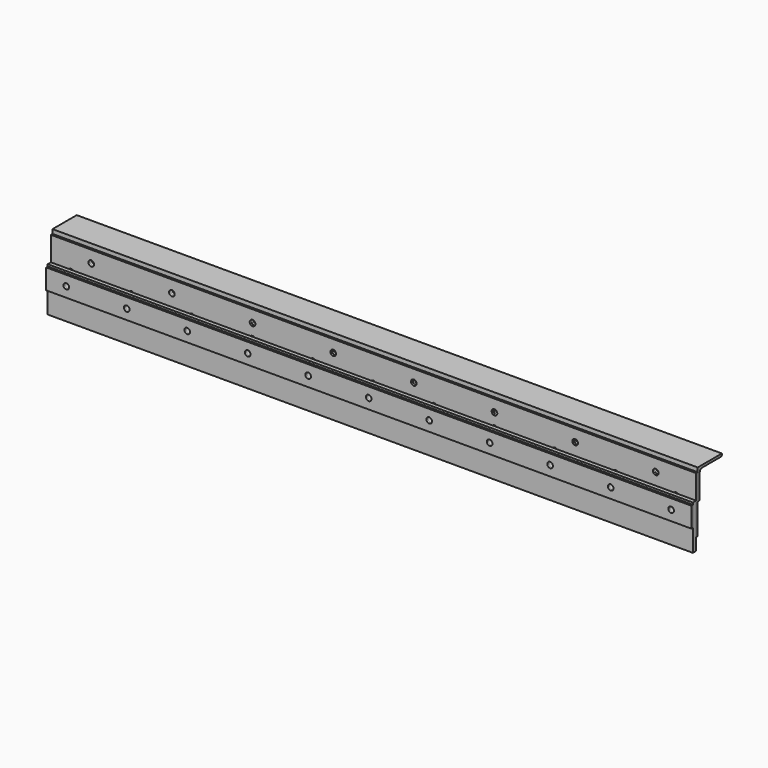
from build123d import *

# Parameters (mm, degrees)
SKETCH_R         = 7
EXTRUDE001_DEPTH = 10
EXTRUDE_DEPTH    = 800
SKETCH001_W      = 1600
SKETCH001_H      = 140
SKETCH001_R      = 7
EXTRUDE002_DEPTH = 5
SKETCH002_W      = 1600
SKETCH002_H      = 110
SKETCH002_R      = 7
EXTRUDE003_DEPTH = 10
SKETCH003_W      = 1600
SKETCH003_H      = 50
SKETCH003_R      = 7
EXTRUDE004_DEPTH = 5


with BuildPart() as extrude001:
    # Sketch (on Face1 of Extrude) → Extrude001 (new body)
    with BuildSketch(Plane.XZ):
        with Locations((-700, -40.447773)):
            Circle(SKETCH_R)
        with Locations((700, -39.622757)):
            Circle(SKETCH_R)
        with Locations((-500, -40.447773)):
            Circle(SKETCH_R)
        with Locations((-299.49234, -40.447773)):
            Circle(SKETCH_R)
        with Locations((-99.23851, -40.447773)):
            Circle(SKETCH_R)
        with Locations((101.01532, -40.447773)):
            Circle(SKETCH_R)
        with Locations((301.26915, -40.447773)):
            Circle(SKETCH_R)
        with Locations((501.52298, -40.447773)):
            Circle(SKETCH_R)
    extrude(amount=-EXTRUDE001_DEPTH)


with BuildPart() as angle:
    # AngleSteel → Extrude (new body, symmetric)
    with BuildSketch(Plane(origin=(0, 20.58985, -20.58985), x_dir=(0, -1, 0), z_dir=(1, 0, 0))):
        with BuildLine():
            Line((20.58985, -20.58985), (20.58985, 54.41015))
            Line((20.58985, 54.41015), (18.58985, 54.41015))
            ThreePointArc((18.58985, 54.41015), (15.761423, 53.238577), (14.58985, 50.41015))
            Line((14.58985, 50.41015), (14.58985, -6.08985))
            ThreePointArc((14.58985, -6.08985), (12.100258, -12.100258), (6.08985, -14.58985))
            Line((6.08985, -14.58985), (-50.41015, -14.58985))
            ThreePointArc((-50.41015, -14.58985), (-53.238577, -15.761423), (-54.41015, -18.58985))
            Line((-54.41015, -18.58985), (-54.41015, -20.58985))
            Line((-54.41015, -20.58985), (20.58985, -20.58985))
        make_face()
    extrude(amount=EXTRUDE_DEPTH, both=True)

    # Cut: cut Extrude001
    add(extrude001.part, mode=Mode.SUBTRACT)


with BuildPart() as extrude002:
    # Sketch001 → Extrude002 (new body)
    with BuildSketch(Plane.XZ):
        Rectangle(SKETCH001_W, SKETCH001_H)
        with Locations((-700, 40)):
            Circle(SKETCH001_R, mode=Mode.SUBTRACT)
        with Locations((100, 40)):
            Circle(SKETCH001_R, mode=Mode.SUBTRACT)
        with Locations((-500, 40)):
            Circle(SKETCH001_R, mode=Mode.SUBTRACT)
        with Locations((-300, 40)):
            Circle(SKETCH001_R, mode=Mode.SUBTRACT)
        with Locations((-100, 40)):
            Circle(SKETCH001_R, mode=Mode.SUBTRACT)
        with Locations((300, 40)):
            Circle(SKETCH001_R, mode=Mode.SUBTRACT)
        with Locations((500, 40)):
            Circle(SKETCH001_R, mode=Mode.SUBTRACT)
        with Locations((700, 40)):
            Circle(SKETCH001_R, mode=Mode.SUBTRACT)
        with BuildLine():
            Line((-743, 5), (-743, -45))
            ThreePointArc((-757, -45), (-750, -52), (-743, -45))
            Line((-757, -45), (-757, 5))
            ThreePointArc((-743, 5), (-750, 12), (-757, 5))
        make_face(mode=Mode.SUBTRACT)
        with BuildLine():
            Line((-593, 5), (-593, -45))
            ThreePointArc((-607, -45), (-600, -52), (-593, -45))
            Line((-607, -45), (-607, 5))
            ThreePointArc((-593, 5), (-600, 12), (-607, 5))
        make_face(mode=Mode.SUBTRACT)
        with BuildLine():
            Line((-443, 5), (-443, -45))
            ThreePointArc((-457, -45), (-450, -52), (-443, -45))
            Line((-457, -45), (-457, 5))
            ThreePointArc((-443, 5), (-450, 12), (-457, 5))
        make_face(mode=Mode.SUBTRACT)
        with BuildLine():
            Line((-293, 5), (-293, -45))
            ThreePointArc((-307, -45), (-300, -52), (-293, -45))
            Line((-307, -45), (-307, 5))
            ThreePointArc((-293, 5), (-300, 12), (-307, 5))
        make_face(mode=Mode.SUBTRACT)
        with BuildLine():
            Line((-143, 5), (-143, -45))
            ThreePointArc((-157, -45), (-150, -52), (-143, -45))
            Line((-157, -45), (-157, 5))
            ThreePointArc((-143, 5), (-150, 12), (-157, 5))
        make_face(mode=Mode.SUBTRACT)
        with BuildLine():
            Line((7, 5), (7, -45))
            ThreePointArc((-7, -45), (0, -52), (7, -45))
            Line((-7, -45), (-7, 5))
            ThreePointArc((7, 5), (0, 12), (-7, 5))
        make_face(mode=Mode.SUBTRACT)
        with BuildLine():
            Line((157, 5), (157, -45))
            ThreePointArc((143, -45), (150, -52), (157, -45))
            Line((143, -45), (143, 5))
            ThreePointArc((157, 5), (150, 12), (143, 5))
        make_face(mode=Mode.SUBTRACT)
        with BuildLine():
            Line((307, 5), (307, -45))
            ThreePointArc((293, -45), (300, -52), (307, -45))
            Line((293, -45), (293, 5))
            ThreePointArc((307, 5), (300, 12), (293, 5))
        make_face(mode=Mode.SUBTRACT)
        with BuildLine():
            Line((457, 5), (457, -45))
            ThreePointArc((443, -45), (450, -52), (457, -45))
            Line((443, -45), (443, 5))
            ThreePointArc((457, 5), (450, 12), (443, 5))
        make_face(mode=Mode.SUBTRACT)
        with BuildLine():
            Line((607, 5), (607, -45))
            ThreePointArc((593, -45), (600, -52), (607, -45))
            Line((593, -45), (593, 5))
            ThreePointArc((607, 5), (600, 12), (593, 5))
        make_face(mode=Mode.SUBTRACT)
        with BuildLine():
            Line((757, 5), (757, -45))
            ThreePointArc((743, -45), (750, -52), (757, -45))
            Line((743, -45), (743, 5))
            ThreePointArc((757, 5), (750, 12), (743, 5))
        make_face(mode=Mode.SUBTRACT)
    extrude(amount=EXTRUDE002_DEPTH)


with BuildPart() as extrude002_1:
    # Extrude002 placement: moved
    add(extrude002.part.moved(Location((0, 0, -80.447773))))


with BuildPart() as rubberplate:
    # Sketch002 → Extrude003 (new body)
    with BuildSketch(Plane.XZ):
        Rectangle(SKETCH002_W, SKETCH002_H)
        with Locations((-750, 25)):
            Circle(SKETCH002_R, mode=Mode.SUBTRACT)
        with Locations((-600, 25)):
            Circle(SKETCH002_R, mode=Mode.SUBTRACT)
        with Locations((-450, 25)):
            Circle(SKETCH002_R, mode=Mode.SUBTRACT)
        with Locations((-300, 25)):
            Circle(SKETCH002_R, mode=Mode.SUBTRACT)
        with Locations((-150, 25)):
            Circle(SKETCH002_R, mode=Mode.SUBTRACT)
        with Locations((0, 25)):
            Circle(SKETCH002_R, mode=Mode.SUBTRACT)
        with Locations((150, 25)):
            Circle(SKETCH002_R, mode=Mode.SUBTRACT)
        with Locations((300, 25)):
            Circle(SKETCH002_R, mode=Mode.SUBTRACT)
        with Locations((450, 25)):
            Circle(SKETCH002_R, mode=Mode.SUBTRACT)
        with Locations((600, 25)):
            Circle(SKETCH002_R, mode=Mode.SUBTRACT)
        with Locations((750, 25)):
            Circle(SKETCH002_R, mode=Mode.SUBTRACT)
    extrude(amount=EXTRUDE003_DEPTH)


with BuildPart() as rubberplate_1:
    # Extrude003 placement: moved
    add(rubberplate.part.moved(Location((0, -5, -125.45))))


with BuildPart() as extrude004:
    # Sketch003 → Extrude004 (new body)
    with BuildSketch(Plane.XZ):
        Rectangle(SKETCH003_W, SKETCH003_H)
        with Locations((-750, 0)):
            Circle(SKETCH003_R, mode=Mode.SUBTRACT)
        with Locations((-600, 0)):
            Circle(SKETCH003_R, mode=Mode.SUBTRACT)
        with Locations((-450, 0)):
            Circle(SKETCH003_R, mode=Mode.SUBTRACT)
        with Locations((-300, 0)):
            Circle(SKETCH003_R, mode=Mode.SUBTRACT)
        with Locations((-150, 0)):
            Circle(SKETCH003_R, mode=Mode.SUBTRACT)
        Circle(SKETCH003_R, mode=Mode.SUBTRACT)
        with Locations((150, 0)):
            Circle(SKETCH003_R, mode=Mode.SUBTRACT)
        with Locations((300, 0)):
            Circle(SKETCH003_R, mode=Mode.SUBTRACT)
        with Locations((450, 0)):
            Circle(SKETCH003_R, mode=Mode.SUBTRACT)
        with Locations((600, 0)):
            Circle(SKETCH003_R, mode=Mode.SUBTRACT)
        with Locations((750, 0)):
            Circle(SKETCH003_R, mode=Mode.SUBTRACT)
    extrude(amount=EXTRUDE004_DEPTH)


with BuildPart() as extrude004_1:
    # Extrude004 placement: moved
    add(extrude004.part.moved(Location((0, -15, -100.45))))


solid = Compound([angle.part, extrude002_1.part, rubberplate_1.part, extrude004_1.part])
